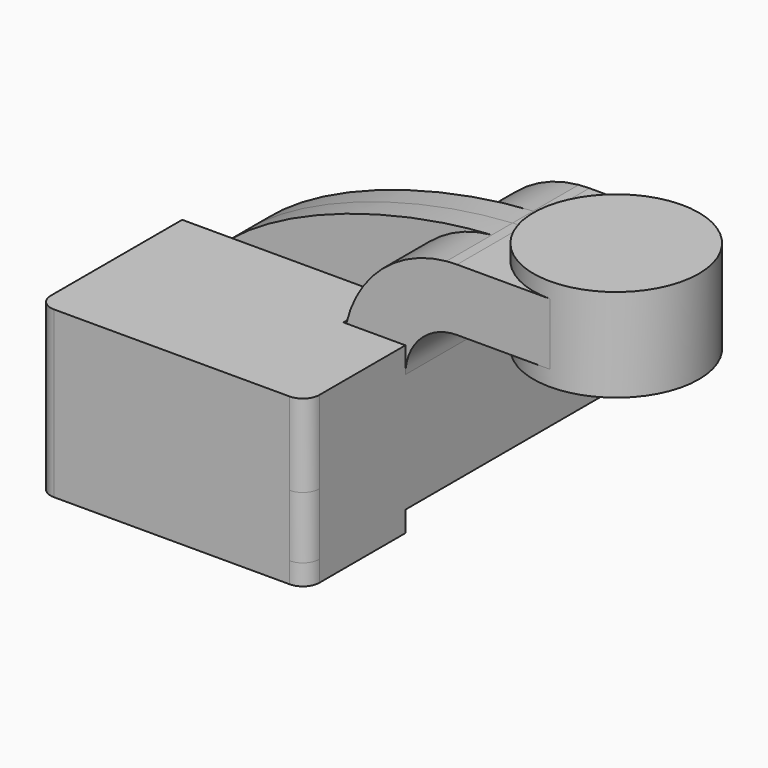
from build123d import *

# Parameters (mm, degrees)
F1_DEPTH = 63.5
F0_W     = 25.4
F0_H     = 19.05
F2_DEPTH = 25.4
F3_DEPTH = 7.9375
F5_R     = 5.08
F6_DEPTH = 25.4


with BuildPart() as f1:
    # F0 (on Front) → F1 (new body, symmetric)
    with BuildSketch(Plane.XZ):
        Polygon((22.225, 9.525), (-41.275, 9.525), (-41.275, -9.525), (41.275, -9.525), (41.275, 9.525), align=None)
    extrude(amount=F1_DEPTH, both=True)

    # F0 (on Front) → F2 (join, symmetric)
    with BuildSketch(Plane.XZ):
        with BuildLine():
            Line((22.225, 27.0002), (22.225, 9.525))
            Line((22.225, 9.525), (41.275, 9.525))
            Line((41.275, 9.525), (41.275, 27.0002))
            ThreePointArc((41.275, 27.0002), (45.9246798487, 38.2255201513), (57.15, 42.8752))
            Line((57.15, 42.8752), (60.325, 42.8752))
            Line((60.325, 42.8752), (60.325, 61.9252))
            Line((60.325, 61.9252), (57.15, 61.9252))
            add(Edge.make_bspline(
                [(53.8854342407, 61.7722898912), (54.9842067368, 61.8365871986), (56.0728453275, 61.8876096574), (57.15, 61.9252)],
                knots=[108.5245810491, 108.5245810491, 108.5245810491, 108.5245810491, 111.5045361635, 111.5045361635, 111.5045361635, 111.5045361635], degree=3))
            ThreePointArc((53.8854342407, 61.7722898912), (31.3258777096, 50.5133948686), (22.225, 27.0002))
        make_face()
        with Locations((73.025, 52.4002)):
            Rectangle(F0_W, F0_H)
    extrude(amount=F2_DEPTH, both=True)

    # F0 (on Front) → F3 (join, symmetric)
    with BuildSketch(Plane.XZ):
        with BuildLine():
            add(Edge.make_bspline(
                [(-41.275, 9.525), (-39.5856284224, 39.4828766469), (13.870125209, 59.4306981306), (53.8854342407, 61.7722898912)],
                knots=[0, 0, 0, 0, 108.5245810491, 108.5245810491, 108.5245810491, 108.5245810491], degree=3))
            Line((-41.275, 9.525), (22.225, 9.525))
            Line((22.225, 9.525), (22.225, 27.0002))
            ThreePointArc((22.225, 27.0002), (31.3258777096, 50.5133948686), (53.8854342407, 61.7722898912))
        make_face()
    extrude(amount=F3_DEPTH, both=True)

    # F0 (on Front) → F4 (revolve)
    with BuildSketch(Plane.XZ):
        Polygon((85.725, 66.675), (85.725, 61.9252), (85.725, 42.8752), (85.725, 38.1), (111.125, 38.1), (111.125, 66.675), align=None)
    revolve(axis=Axis((85.725, 0, 52.3875), (0, 0, 1)))

    # F5
    f5_edges = [f1.edges().sort_by_distance(p)[0] for p in [
        (41.275, -63.5, 0),
        (-41.275, -63.5, 0),
        (41.275, 63.5, 0),
        (-41.275, 63.5, 0),
    ]]
    fillet(f5_edges, radius=F5_R)

    # F6 (add, symmetric): a face of the model
    f6_faces = [f1.faces().sort_by_distance(p)[0] for p in [
        (-2.489301299, -37.1427700655, 9.525),
    ]]
    extrude(f6_faces, amount=F6_DEPTH, both=True)


solid = f1.part
